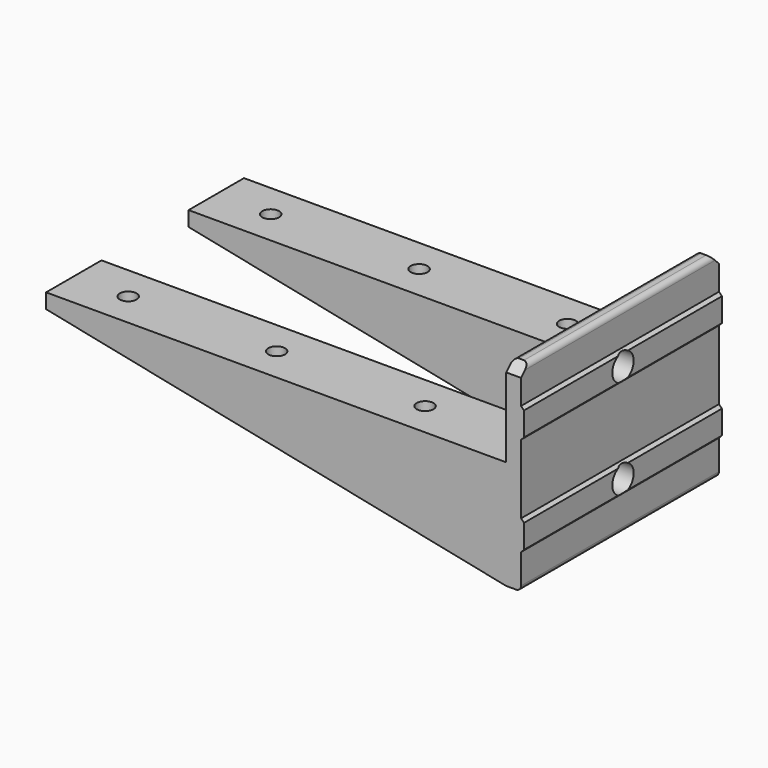
from build123d import *

# Parameters (mm, degrees)
PAD_DEPTH         = 40
PAD001_DEPTH      = 25
POCKET_DEPTH      = 25.001
POCKET_DEPTH_BACK = -25.001
POCKET001_DEPTH   = 93
SKETCH003_R       = 1.7
POCKET002_DEPTH   = 40.001
SKETCH005_R       = 2.7
POCKET003_DEPTH   = 96.601
CHAMFER_SIZE      = 2
FILLET_R          = 1


with BuildPart() as part:
    # Sketch → Pad (new body)
    with BuildSketch(Plane.XY):
        Polygon((0, 25), (-96, 25), (-96, 11), (-3, 11), (-3, -11), (-96, -11), (-96, -25), (0, -25), align=None)
    extrude(amount=-PAD_DEPTH)

    # Sketch004 → Pad001 (join, symmetric)
    with BuildSketch(Plane.XZ):
        Polygon((0, -7), (0, -13), (0.6, -12.4), (0.6, -7.6), align=None)
        Polygon((0, -27), (0, -33), (0.6, -32.4), (0.6, -27.6), align=None)
    extrude(amount=PAD001_DEPTH, both=True)

    # Sketch001 → Pocket (cut, two sides)
    with BuildSketch(Plane.XZ) as pocket_sk:
        Polygon((-3, -40), (-96, -21), (-96, -18), (-3, -18), (-3, 0), (-97, 0), (-97, -40), align=None)
    extrude(amount=-POCKET_DEPTH, mode=Mode.SUBTRACT)
    extrude(pocket_sk.sketch, amount=-POCKET_DEPTH_BACK, mode=Mode.SUBTRACT)

    # Sketch002 → Pocket001 (cut)
    with BuildSketch(Plane.YZ.offset(-3)):
        Polygon((-22, -41), (-22, -21), (-14, -21), (-14, -40), (14, -40), (14, -21), (22, -21), (22, -41), align=None)
    extrude(amount=-POCKET001_DEPTH, mode=Mode.SUBTRACT)

    # Sketch003 → Pocket002 (cut, through all)
    with BuildSketch(Plane.XY):
        with Locations((-85, 18)):
            Circle(SKETCH003_R)
        with Locations((-25, 18)):
            Circle(SKETCH003_R)
        with Locations((-25, -18)):
            Circle(SKETCH003_R)
        with Locations((-85, -18)):
            Circle(SKETCH003_R)
        with Locations((-55, -18)):
            Circle(SKETCH003_R)
        with Locations((-55, 18)):
            Circle(SKETCH003_R)
    extrude(amount=-POCKET002_DEPTH, mode=Mode.SUBTRACT)

    # Sketch005 → Pocket003 (cut, through all)
    with BuildSketch(Plane.YZ.offset(0.6)):
        with Locations((0, -10)):
            Circle(SKETCH005_R)
        with Locations((0, -30)):
            Circle(SKETCH005_R)
    extrude(amount=-POCKET003_DEPTH, mode=Mode.SUBTRACT)

    # Chamfer
    chamfer_edges = [part.edges().sort_by_distance(p)[0] for p in [
        (-1.5, 25, 0),
        (-1.5, -25, 0),
    ]]
    chamfer(chamfer_edges, length=CHAMFER_SIZE)

    # Fillet
    fillet_edges = [part.edges().sort_by_distance(p)[0] for p in [
        (0, 0, 0),
        (0, 0, -40),
        (-3, 0, 0),
        (-3, 0, -40),
    ]]
    fillet(fillet_edges, radius=FILLET_R)


solid = part.part
